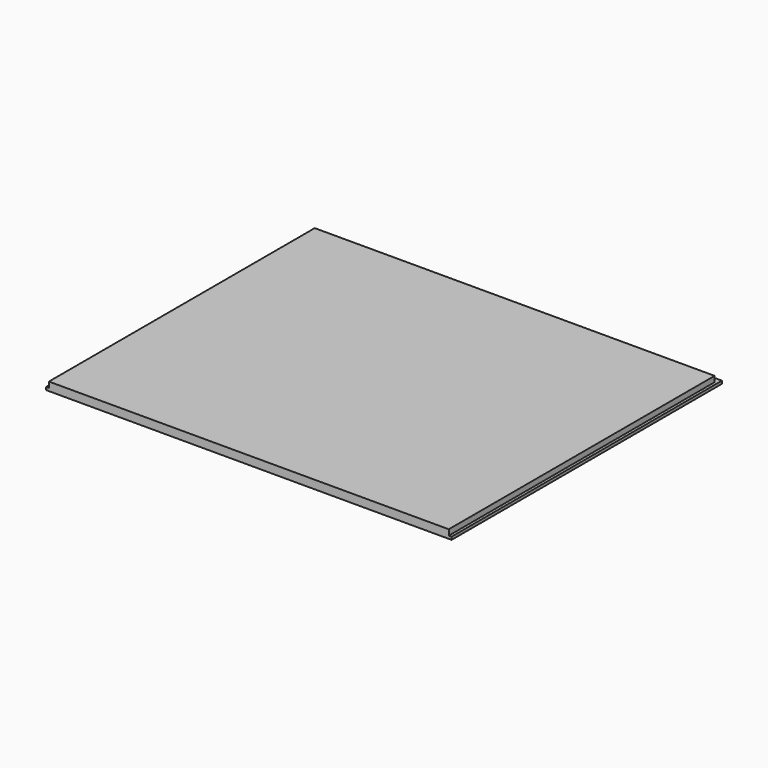
from build123d import *

# Parameters (mm, degrees)
F0_W     = 914.4
F0_H     = 762
F1_DEPTH = 19.05
F2_W     = 6.35
F2_H     = 12.7
F3_DEPTH = 762.001
F4_W     = 12.7
F4_H     = 12.7
F5_DEPTH = 914.401


with BuildPart() as f1:
    # F0 (on Top) → F1 (new body)
    with BuildSketch(Plane.XY):
        with Locations((457.2, 381)):
            Rectangle(F0_W, F0_H)
    extrude(amount=F1_DEPTH)

    # F2 (on face) → F3 (cut, through all)
    with BuildSketch(Plane.XZ):
        with Locations((3.175, 12.7)):
            Rectangle(F2_W, F2_H)
        with Locations((911.225, 12.7)):
            Rectangle(F2_W, F2_H)
    extrude(amount=-F3_DEPTH, mode=Mode.SUBTRACT)

    # F4 (on face) → F5 (cut, through all)
    with BuildSketch(Plane.YZ.offset(914.4)):
        with Locations((755.65, 12.7)):
            Rectangle(F4_W, F4_H)
    extrude(amount=-F5_DEPTH, mode=Mode.SUBTRACT)


solid = f1.part
